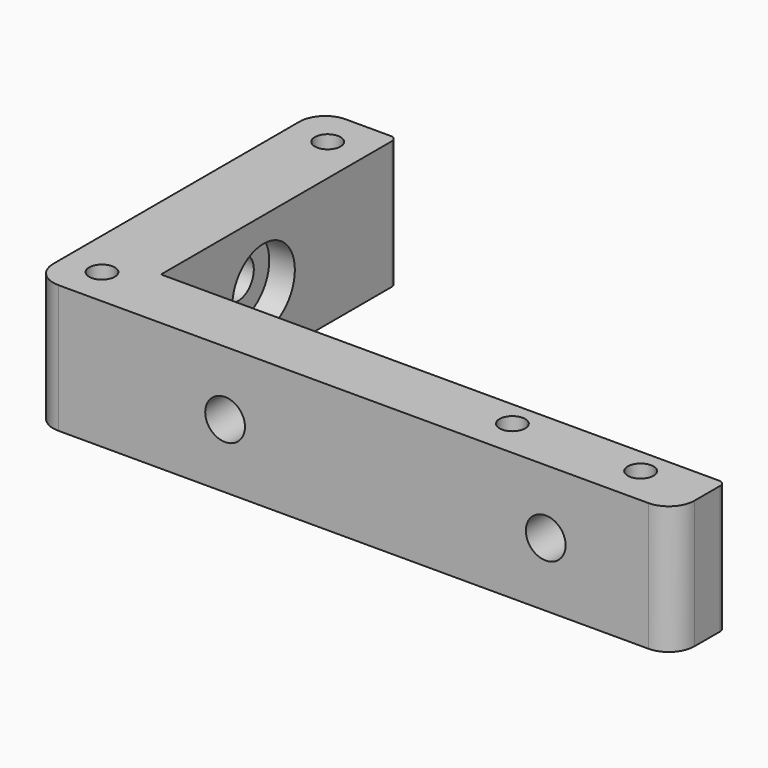
from build123d import *

# Parameters (mm, degrees)
SKETCH_R        = 2
PAD_DEPTH       = 20
SKETCH001_R     = 6.1
POCKET_DEPTH    = 4
SKETCH002_R     = 6.1
POCKET001_DEPTH = 4
SKETCH003_R     = 3.1
POCKET002_DEPTH = 10
SKETCH004_R     = 3.1
POCKET003_DEPTH = 10
FILLET_R        = 4
FILLET001_R     = 4
FILLET002_R     = 4
FILLET003_R     = 1
FILLET004_R     = 1


with BuildPart() as part:
    # Sketch → Pad (new body)
    with BuildSketch(Plane.XY):
        Polygon((0, 56), (12, 56), (12, 10), (100, 10), (100, 0), (0, 0), align=None)
        with Locations((6, 50)):
            Circle(SKETCH_R, mode=Mode.SUBTRACT)
        with Locations((6, 6)):
            Circle(SKETCH_R, mode=Mode.SUBTRACT)
        with Locations((90, 6)):
            Circle(SKETCH_R, mode=Mode.SUBTRACT)
        with Locations((70, 6)):
            Circle(SKETCH_R, mode=Mode.SUBTRACT)
    extrude(amount=PAD_DEPTH)

    # Sketch001 → Pocket (cut)
    with BuildSketch(Plane(origin=(0, 10, 0), x_dir=(-1, 0, 0), z_dir=(0, 1, 0))):
        with Locations((-30, 10)):
            Circle(SKETCH001_R)
        with Locations((-80, 10)):
            Circle(SKETCH001_R)
    extrude(amount=-POCKET_DEPTH, mode=Mode.SUBTRACT)

    # Sketch002 → Pocket001 (cut)
    with BuildSketch(Plane.YZ.offset(12)):
        with Locations((30, 10)):
            Circle(SKETCH002_R)
    extrude(amount=-POCKET001_DEPTH, mode=Mode.SUBTRACT)

    # Sketch003 → Pocket002 (cut)
    with BuildSketch(Plane.YZ.offset(8)):
        with Locations((30, 10)):
            Circle(SKETCH003_R)
    extrude(amount=-POCKET002_DEPTH, mode=Mode.SUBTRACT)

    # Sketch004 → Pocket003 (cut)
    with BuildSketch(Plane(origin=(0, 6, 0), x_dir=(-1, 0, 0), z_dir=(0, 1, 0))):
        with Locations((-80, 10)):
            Circle(SKETCH004_R)
        with Locations((-30, 10)):
            Circle(SKETCH004_R)
    extrude(amount=-POCKET003_DEPTH, mode=Mode.SUBTRACT)

    # Fillet
    fillet_edges = [part.edges().sort_by_distance(p)[0] for p in [
        (0, 0, 10),
    ]]
    fillet(fillet_edges, radius=FILLET_R)

    # Fillet001
    fillet001_edges = [part.edges().sort_by_distance(p)[0] for p in [
        (100, 0, 10),
    ]]
    fillet(fillet001_edges, radius=FILLET001_R)

    # Fillet002
    fillet002_edges = [part.edges().sort_by_distance(p)[0] for p in [
        (0, 56, 10),
    ]]
    fillet(fillet002_edges, radius=FILLET002_R)

    # Fillet003
    fillet003_edges = [part.edges().sort_by_distance(p)[0] for p in [
        (12, 56, 10),
    ]]
    fillet(fillet003_edges, radius=FILLET003_R)

    # Fillet004
    fillet004_edges = [part.edges().sort_by_distance(p)[0] for p in [
        (100, 10, 10),
    ]]
    fillet(fillet004_edges, radius=FILLET004_R)


solid = part.part
